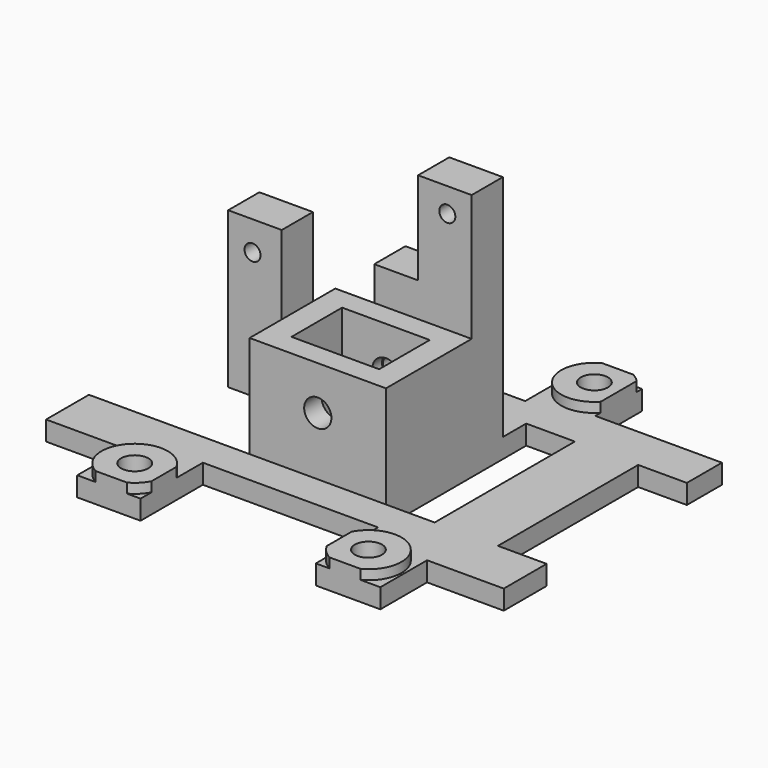
from build123d import *

# Parameters (mm, degrees)
BOX096_W                    = 10
BOX096_H                    = 36
BOX096_DEPTH                = 10
BOX094_W                    = 94
BOX094_H                    = 8
BOX094_DEPTH                = 10
BOX095_W                    = 94
BOX095_H                    = 8
BOX095_DEPTH                = 10
BOX092_W                    = 94
BOX092_H                    = 8
BOX092_DEPTH                = 10
BOX093_W                    = 94
BOX093_H                    = 8
BOX093_DEPTH                = 10
CYLINDER112_R               = 2.8
CYLINDER112_DEPTH           = 10
CYLINDER113_R               = 2.8
CYLINDER113_DEPTH           = 10
CYLINDER114_R               = 2.8
CYLINDER114_DEPTH           = 10
CYLINDER111_R               = 2.8
CYLINDER111_DEPTH           = 10
BOX089_W                    = 11
BOX089_H                    = 6
BOX089_DEPTH                = 10
BOX088_W                    = 19
BOX088_H                    = 8
BOX088_DEPTH                = 51
CYLINDER109_R               = 1.65
CYLINDER109_DEPTH           = 50
CYLINDER110_R               = 1.65
CYLINDER110_DEPTH           = 50
CYLINDER108_R               = 1.65
CYLINDER108_DEPTH           = 50
BOX085_W                    = 15
BOX085_H                    = 18
BOX085_DEPTH                = 10
BOX080_W                    = 33
BOX080_H                    = 22
BOX080_DEPTH                = 10
BOX083_W                    = 18
BOX083_H                    = 13
BOX083_DEPTH                = 25
BOX082_W                    = 36
BOX082_H                    = 19
BOX082_DEPTH                = 10
BOX081_W                    = 10
BOX081_H                    = 36
BOX081_DEPTH                = 10
BOX073_W                    = 18
BOX073_H                    = 10
BOX073_DEPTH                = 25
CYLINDER_R                  = 2.8
CYLINDER_DEPTH              = 50
BOX087_W                    = 50
BOX087_H                    = 8
BOX087_DEPTH                = 51
BOX091_W                    = 11
BOX091_H                    = 8
BOX091_DEPTH                = 10
BOX084_W                    = 50
BOX084_H                    = 8
BOX084_DEPTH                = 51
BOX086_W                    = 28
BOX086_H                    = 22
BOX086_DEPTH                = 25
CYLINDER107_R               = 1
CYLINDER107_DEPTH           = 10
CYLINDER103_R               = 2.25
CYLINDER103_DEPTH           = 10
CYLINDER104_R               = 2.25
CYLINDER104_DEPTH           = 10
CYLINDER106_R               = 2
CYLINDER106_DEPTH           = 10
CYLINDER105_R               = 2.25
CYLINDER105_DEPTH           = 10
BOX063_W                    = 26
BOX063_H                    = 12
BOX063_DEPTH                = 4
BOX061_W                    = 26
BOX061_H                    = 12
BOX061_DEPTH                = 4
BOX062_W                    = 26
BOX062_H                    = 12
BOX062_DEPTH                = 4
BOX064_W                    = 26
BOX064_H                    = 12
BOX064_DEPTH                = 4
BOX060_W                    = 94
BOX060_H                    = 80
BOX060_DEPTH                = 4
CUT020_PLACEMENT_ANGLE      = 180
CYLINDER116_R               = 6.8
CYLINDER116_DEPTH           = 6
CYLINDER117_R               = 6.8
CYLINDER117_DEPTH           = 6
CYLINDER118_R               = 6.8
CYLINDER118_DEPTH           = 6
CYLINDER115_R               = 6.8
CYLINDER115_DEPTH           = 6
CYLINDER115_PLACEMENT_ANGLE = 60


with BuildPart() as cube053:
    # Box096 → Box096 (new body)
    with BuildSketch(Plane(origin=(97, 27, 140), x_dir=(1, 0, 0), z_dir=(0, 0, 1))):
        with Locations((5, 18)):
            Rectangle(BOX096_W, BOX096_H)
    extrude(amount=BOX096_DEPTH)


with BuildPart() as cube051:
    # Box094 → Box094 (new body)
    with BuildSketch(Plane(origin=(89, 72, 140), x_dir=(0, 1, 0), z_dir=(0, 0, 1))):
        with Locations((47, 4)):
            Rectangle(BOX094_W, BOX094_H)
    extrude(amount=BOX094_DEPTH)


with BuildPart() as cube052:
    # Box095 → Box095 (new body)
    with BuildSketch(Plane(origin=(39, 72, 140), x_dir=(0, 1, 0), z_dir=(0, 0, 1))):
        with Locations((47, 4)):
            Rectangle(BOX095_W, BOX095_H)
    extrude(amount=BOX095_DEPTH)


with BuildPart() as cube049:
    # Box092 → Box092 (new body)
    with BuildSketch(Plane(origin=(13, -4, 140), x_dir=(1, 0, 0), z_dir=(0, 0, 1))):
        with Locations((47, 4)):
            Rectangle(BOX092_W, BOX092_H)
    extrude(amount=BOX092_DEPTH)


with BuildPart() as fusion130:
    # Box093 → Box093 (new body)
    with BuildSketch(Plane(origin=(13, 84, 140), x_dir=(1, 0, 0), z_dir=(0, 0, 1))):
        with Locations((47, 4)):
            Rectangle(BOX093_W, BOX093_H)
    extrude(amount=BOX093_DEPTH)

    # Fusion130: union Cube051, Cube052, Cube049
    add(cube051.part)
    add(cube052.part)
    add(cube049.part)


with BuildPart() as m4heatsetcut001:
    # Cylinder112 → Cylinder112 (new body)
    with BuildSketch(Plane(origin=(84, 10, 140), x_dir=(1, 0, 0), z_dir=(0, 0, 1))):
        Circle(CYLINDER112_R)
    extrude(amount=CYLINDER112_DEPTH)


with BuildPart() as m4heatsetcut002:
    # Cylinder113 → Cylinder113 (new body)
    with BuildSketch(Plane(origin=(76, 78, 140), x_dir=(1, 0, 0), z_dir=(0, 0, 1))):
        Circle(CYLINDER113_R)
    extrude(amount=CYLINDER113_DEPTH)


with BuildPart() as m4heatsetcut003:
    # Cylinder114 → Cylinder114 (new body)
    with BuildSketch(Plane(origin=(44, 78, 140), x_dir=(1, 0, 0), z_dir=(0, 0, 1))):
        Circle(CYLINDER114_R)
    extrude(amount=CYLINDER114_DEPTH)


with BuildPart() as heatsetcuts:
    # Cylinder111 → Cylinder111 (new body)
    with BuildSketch(Plane(origin=(36, 10, 140), x_dir=(1, 0, 0), z_dir=(0, 0, 1))):
        Circle(CYLINDER111_R)
    extrude(amount=CYLINDER111_DEPTH)

    # Fusion126: union m4HeatSetCut001, m4HeatSetCut002, m4HeatSetCut003
    add(m4heatsetcut001.part)
    add(m4heatsetcut002.part)
    add(m4heatsetcut003.part)


with BuildPart() as cube046:
    # Box089 → Box089 (new body)
    with BuildSketch(Plane(origin=(13, 57, 140), x_dir=(1, 0, 0), z_dir=(0, 0, 1))):
        with Locations((5.5, 3)):
            Rectangle(BOX089_W, BOX089_H)
    extrude(amount=BOX089_DEPTH)


with BuildPart() as cube045:
    # Box088 → Box088 (new body)
    with BuildSketch(Plane(origin=(35, 49, 144), x_dir=(1, 0, 0), z_dir=(0, 0, 1))):
        with Locations((9.5, 4)):
            Rectangle(BOX088_W, BOX088_H)
    extrude(amount=BOX088_DEPTH)


with BuildPart() as cylinder111:
    # Cylinder109 → Cylinder109 (new body)
    with BuildSketch(Plane(origin=(40, 17, 166), x_dir=(1, 0, 0), z_dir=(0, 1, 0))):
        Circle(CYLINDER109_R)
    extrude(amount=CYLINDER109_DEPTH)


with BuildPart() as cylinder112:
    # Cylinder110 → Cylinder110 (new body)
    with BuildSketch(Plane(origin=(70, 17, 156), x_dir=(1, 0, 0), z_dir=(0, 1, 0))):
        Circle(CYLINDER110_R)
    extrude(amount=CYLINDER110_DEPTH)


with BuildPart() as m2cuts:
    # Cylinder108 → Cylinder108 (new body)
    with BuildSketch(Plane(origin=(80, 17, 186), x_dir=(1, 0, 0), z_dir=(0, 1, 0))):
        Circle(CYLINDER108_R)
    extrude(amount=CYLINDER108_DEPTH)

    # Fusion: union Cylinder111, Cylinder112
    add(cylinder111.part)
    add(cylinder112.part)


with BuildPart() as m2cuts_1:
    # Fusion placement: moved
    add(m2cuts.part.moved(Location((-11, 30, 0))))


with BuildPart() as cube043:
    # Box085 → Box085 (new body)
    with BuildSketch(Plane(origin=(69, 69, 140), x_dir=(0, 1, 0), z_dir=(0, 0, 1))):
        with Locations((7.5, 9)):
            Rectangle(BOX085_W, BOX085_H)
    extrude(amount=BOX085_DEPTH)


with BuildPart() as cube038:
    # Box080 → Box080 (new body)
    with BuildSketch(Plane(origin=(13, 27, 140), x_dir=(1, 0, 0), z_dir=(0, 0, 1))):
        with Locations((16.5, 11)):
            Rectangle(BOX080_W, BOX080_H)
    extrude(amount=BOX080_DEPTH)


with BuildPart() as cube041:
    # Box083 → Box083 (new body)
    with BuildSketch(Plane(origin=(51, 31.5, 144), x_dir=(1, 0, 0), z_dir=(0, 0, 1))):
        with Locations((9, 6.5)):
            Rectangle(BOX083_W, BOX083_H)
    extrude(amount=BOX083_DEPTH)


with BuildPart() as cube040:
    # Box082 → Box082 (new body)
    with BuildSketch(Plane(origin=(42, 1, 140), x_dir=(1, 0, 0), z_dir=(0, 0, 1))):
        with Locations((18, 9.5)):
            Rectangle(BOX082_W, BOX082_H)
    extrude(amount=BOX082_DEPTH)


with BuildPart() as cube039:
    # Box081 → Box081 (new body)
    with BuildSketch(Plane(origin=(74, 27, 140), x_dir=(1, 0, 0), z_dir=(0, 0, 1))):
        with Locations((5, 18)):
            Rectangle(BOX081_W, BOX081_H)
    extrude(amount=BOX081_DEPTH)


with BuildPart() as obj1:
    # Box073 → Box073 (new body)
    with BuildSketch(Plane(origin=(51, 33, 140), x_dir=(1, 0, 0), z_dir=(0, 0, 1))):
        with Locations((9, 5)):
            Rectangle(BOX073_W, BOX073_H)
    extrude(amount=BOX073_DEPTH)


with BuildPart() as cylinder:
    # Cylinder → Cylinder (new body)
    with BuildSketch(Plane(origin=(60, -3, 156), x_dir=(1, 0, 0), z_dir=(0, 1, 0))):
        Circle(CYLINDER_R)
    extrude(amount=CYLINDER_DEPTH)


with BuildPart() as cuts:
    # Box087 → Box087 (new body)
    with BuildSketch(Plane(origin=(13, 49, 172), x_dir=(1, 0, 0), z_dir=(0, 0, 1))):
        with Locations((25, 4)):
            Rectangle(BOX087_W, BOX087_H)
    extrude(amount=BOX087_DEPTH)

    # Fusion125: union Cube045, m2Cuts, Cube043, Cube038, Cube041, Cube040, Cube039, obj1, Cylinder
    add(cube045.part)
    add(m2cuts_1.part)
    add(cube043.part)
    add(cube038.part)
    add(cube041.part)
    add(cube040.part)
    add(cube039.part)
    add(obj1.part)
    add(cylinder.part)


with BuildPart() as cuts003:
    # Box091 → Box091 (new body)
    with BuildSketch(Plane(origin=(13, 49, 140), x_dir=(1, 0, 0), z_dir=(0, 0, 1))):
        with Locations((5.5, 4)):
            Rectangle(BOX091_W, BOX091_H)
    extrude(amount=BOX091_DEPTH)

    # Fusion127: union heatSetCuts, Cube046, cuts
    add(heatsetcuts.part)
    add(cube046.part)
    add(cuts.part)

    # Fusion131: union Fusion130
    add(fusion130.part)

    # Fusion132: union Cube053
    add(cube053.part)


with BuildPart() as cube042:
    # Box084 → Box084 (new body)
    with BuildSketch(Plane(origin=(24, 49, 140), x_dir=(1, 0, 0), z_dir=(0, 0, 1))):
        with Locations((25, 4)):
            Rectangle(BOX084_W, BOX084_H)
    extrude(amount=BOX084_DEPTH)


with BuildPart() as obj2:
    # Box086 → Box086 (new body)
    with BuildSketch(Plane(origin=(46, 27, 140), x_dir=(1, 0, 0), z_dir=(0, 0, 1))):
        with Locations((14, 11)):
            Rectangle(BOX086_W, BOX086_H)
    extrude(amount=BOX086_DEPTH)


with BuildPart() as cylinder109:
    # Cylinder107 → Cylinder107 (new body)
    with BuildSketch(Plane.XY):
        Circle(CYLINDER107_R)
    extrude(amount=CYLINDER107_DEPTH)


with BuildPart() as cylinder107:
    # Cylinder103 → Cylinder103 (new body)
    with BuildSketch(Plane(origin=(63, 3, 0), x_dir=(1, 0, 0), z_dir=(0, 0, 1))):
        Circle(CYLINDER103_R)
    extrude(amount=CYLINDER103_DEPTH)


with BuildPart() as cylinder103:
    # Cylinder104 → Cylinder104 (new body)
    with BuildSketch(Plane(origin=(71, 71, 0), x_dir=(1, 0, 0), z_dir=(0, 0, 1))):
        Circle(CYLINDER104_R)
    extrude(amount=CYLINDER104_DEPTH)


with BuildPart() as cylinder104:
    # Cylinder106 → Cylinder106 (new body)
    with BuildSketch(Plane(origin=(23, 71, 0), x_dir=(1, 0, 0), z_dir=(0, 0, 1))):
        Circle(CYLINDER106_R)
    extrude(amount=CYLINDER106_DEPTH)


with BuildPart() as screwins001:
    # Cylinder105 → Cylinder105 (new body)
    with BuildSketch(Plane(origin=(31, 3, 0), x_dir=(1, 0, 0), z_dir=(0, 0, 1))):
        Circle(CYLINDER105_R)
    extrude(amount=CYLINDER105_DEPTH)

    # Fusion123: union Cylinder109, Cylinder107, Cylinder103, Cylinder104
    add(cylinder109.part)
    add(cylinder107.part)
    add(cylinder103.part)
    add(cylinder104.part)


with BuildPart() as screwins001_1:
    # Fusion123 placement: moved
    add(screwins001.part.moved(Location((0, 3, 0))))


with BuildPart() as base004:
    # Box063 → Box063 (new body)
    with BuildSketch(Plane(origin=(78, 68, 0), x_dir=(1, 0, 0), z_dir=(0, 0, 1))):
        with Locations((13, 6)):
            Rectangle(BOX063_W, BOX063_H)
    extrude(amount=BOX063_DEPTH)


with BuildPart() as base002:
    # Box061 → Box061 (new body)
    with BuildSketch(Plane.XY):
        with Locations((13, 6)):
            Rectangle(BOX061_W, BOX061_H)
    extrude(amount=BOX061_DEPTH)


with BuildPart() as base003:
    # Box062 → Box062 (new body)
    with BuildSketch(Plane(origin=(68, 0, 0), x_dir=(1, 0, 0), z_dir=(0, 0, 1))):
        with Locations((13, 6)):
            Rectangle(BOX062_W, BOX062_H)
    extrude(amount=BOX062_DEPTH)


with BuildPart() as fusion122:
    # Box064 → Box064 (new body)
    with BuildSketch(Plane(origin=(-10.25, 68, 0), x_dir=(1, 0, 0), z_dir=(0, 0, 1))):
        with Locations((13, 6)):
            Rectangle(BOX064_W, BOX064_H)
    extrude(amount=BOX064_DEPTH)

    # Fusion122: union base004, base002, base003
    add(base004.part)
    add(base002.part)
    add(base003.part)


with BuildPart() as base:
    # Box060 → Box060 (new body)
    with BuildSketch(Plane.XY):
        with Locations((47, 40)):
            Rectangle(BOX060_W, BOX060_H)
    extrude(amount=BOX060_DEPTH)

    # Cut019: cut Fusion122
    add(fusion122.part, mode=Mode.SUBTRACT)

    # Cut020: cut screwIns001
    add(screwins001_1.part, mode=Mode.SUBTRACT)


with BuildPart() as base_1:
    # Cut020 placement: moved
    add(base.part.moved(Location((107, 84, 140))).rotate(Axis((107, 84, 140), (0, 0, 1)), CUT020_PLACEMENT_ANGLE))

    # Fusion124: union Cube042, obj2
    add(cube042.part)
    add(obj2.part)


with BuildPart() as m4heatsetcut005:
    # Cylinder116 → Cylinder116 (new body)
    with BuildSketch(Plane(origin=(84, 10, 140), x_dir=(1, 0, 0), z_dir=(0, 0, 1))):
        Circle(CYLINDER116_R)
    extrude(amount=CYLINDER116_DEPTH)


with BuildPart() as m4heatsetcut006:
    # Cylinder117 → Cylinder117 (new body)
    with BuildSketch(Plane(origin=(76, 78, 140), x_dir=(1, 0, 0), z_dir=(0, 0, 1))):
        Circle(CYLINDER117_R)
    extrude(amount=CYLINDER117_DEPTH)


with BuildPart() as m4heatsetcut007:
    # Cylinder118 → Cylinder118 (new body)
    with BuildSketch(Plane(origin=(44, 78, 140), x_dir=(1, 0, 0), z_dir=(0, 0, 1))):
        Circle(CYLINDER118_R)
    extrude(amount=CYLINDER118_DEPTH)


with BuildPart() as base007:
    # Cylinder115 → Cylinder115 (new body)
    with BuildSketch(Plane.XY):
        Circle(CYLINDER115_R)
    extrude(amount=CYLINDER115_DEPTH)


with BuildPart() as base007_1:
    # Cylinder115 placement: moved
    add(base007.part.moved(Location((36, 10, 140))).rotate(Axis((36, 10, 140), (0, 0, -1)), CYLINDER115_PLACEMENT_ANGLE))

    # Fusion128: union m4HeatSetCut005, m4HeatSetCut006, m4HeatSetCut007
    add(m4heatsetcut005.part)
    add(m4heatsetcut006.part)
    add(m4heatsetcut007.part)

    # Fusion129: union base
    add(base_1.part)

    # Cut: cut cuts003
    add(cuts003.part, mode=Mode.SUBTRACT)


solid = base007_1.part
